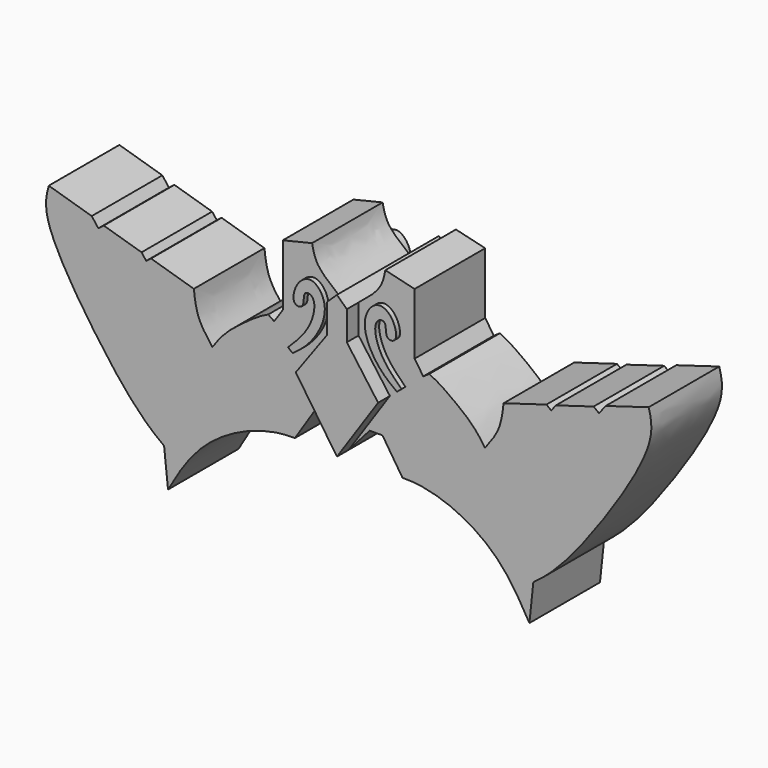
from build123d import *

# Parameters (mm, degrees)
F1_DEPTH = 4.572
F3_DEPTH = 0.762
F5_DEPTH = 0.254
F6_DEPTH = 5.842
F7_DEPTH = 5.588


with BuildPart() as f1:
    # F0 (on Front) → F1 (new body)
    with BuildSketch(Plane.XZ):
        with BuildLine():
            Line((0.511412567, -28.8139525801), (0, -28.323020786))
            Line((0, -28.323020786), (-0.511412567, -28.8139525801))
            add(Edge.make_bspline(
                [(-0.511412567, -28.8139525801), (-0.9403535722, -28.472074233), (-1.705014842, -27.8626171566), (-1.8396956904, -27.1887672659), (-1.8988265656, -26.8929172307)],
                knots=[0, 0, 0, 0, 0.5609555789, 1, 1, 1, 1], degree=3))
            Line((-1.8988265656, -26.8929172307), (-3.4143095836, -27.2557791322))
            Line((-3.4143095836, -27.2557791322), (-3.4143095836, -30.4361600429))
            Line((-3.4143095836, -30.4361600429), (-3.8625509478, -31.097849831))
            Line((-3.8625509478, -31.097849831), (-4.1716856722, -30.8884360346))
            add(Edge.make_bspline(
                [(-4.1716856722, -30.8884360346), (-4.6570503664, -31.0942776244), (-5.892475855, -31.9972889557), (-6.5520000644, -32.5706414878), (-7.0642759092, -33.3177112043)],
                knots=[0, 0, 0, 0, 0.4959920039, 1, 1, 1, 1], degree=3))
            add(Edge.make_bspline(
                [(-7.0642759092, -33.3177112043), (-7.336361897, -32.9605648351), (-7.8752721244, -32.253178789), (-7.975278263, -31.3947858635), (-8.0247931182, -30.9697799385)],
                knots=[0, 0, 0, 0, 0.504881841, 1, 1, 1, 1], degree=3))
            Line((-8.0247931182, -30.9697799385), (-10.2446554229, -30.3080901504))
            Line((-10.2446554229, -30.3080901504), (-10.4927985468, -30.4989707578))
            Line((-10.4927985468, -30.4989707578), (-10.734282434, -30.1850438118))
            Line((-10.734282434, -30.1850438118), (-12.6912189795, -29.6017261324))
            Line((-12.6912189795, -29.6017261324), (-12.97225981, -29.8179128379))
            Line((-12.97225981, -29.8179128379), (-13.3158623139, -29.3712325813))
            Line((-13.3158623139, -29.3712325813), (-15.5417267233, -28.7077537041))
            add(Edge.make_bspline(
                [(-15.5417267233, -28.7077537041), (-15.7046895474, -29.2615797371), (-15.8360494147, -30.5935817761), (-12.8855823307, -35.2033930228), (-10.7517862636, -37.7968416821), (-9.5663731918, -38.6320203543)],
                knots=[0, 0, 0, 0, 0.2250809151, 0.6202128531, 1, 1, 1, 1], degree=3))
            Line((-9.5663731918, -38.6320203543), (-9.3634054065, -40.5627302825))
            add(Edge.make_bspline(
                [(-9.3634054065, -40.5627302825), (-8.7686777302, -39.5064561238), (-7.5085610307, -37.4075436859), (-4.3846545231, -36.0306924657), (-2.7879977133, -36.0754579306)],
                knots=[0, 0, 0, 0, 0.4667287487, 1, 1, 1, 1], degree=3))
            Line((-2.7879977133, -36.0754579306), (-1.7513347557, -34.4760343432))
            Line((-1.7513347557, -34.4760343432), (-1.0849080281, -34.4760343432))
            Line((-1.0849080281, -34.4760343432), (0, -35.7052236795))
            Line((0, -35.7052236795), (1.0849080281, -34.4760343432))
            Line((1.0849080281, -34.4760343432), (1.7513347557, -34.4760343432))
            Line((1.7513347557, -34.4760343432), (2.7879977133, -36.0754579306))
            add(Edge.make_bspline(
                [(9.3634054065, -40.5627302825), (8.7686777302, -39.5064561238), (7.5085610307, -37.4075436859), (4.3846545231, -36.0306924657), (2.7879977133, -36.0754579306)],
                knots=[0, 0, 0, 0, 0.4667287487, 1, 1, 1, 1], degree=3))
            Line((9.3634054065, -40.5627302825), (9.5663731918, -38.6320203543))
            add(Edge.make_bspline(
                [(15.5417267233, -28.7077537041), (15.7046895474, -29.2615797371), (15.8360494147, -30.5935817761), (12.8855823307, -35.2033930228), (10.7517862636, -37.7968416821), (9.5663731918, -38.6320203543)],
                knots=[0, 0, 0, 0, 0.2250809151, 0.6202128531, 1, 1, 1, 1], degree=3))
            Line((15.5417267233, -28.7077537041), (13.3158623139, -29.3712325813))
            Line((13.3158623139, -29.3712325813), (12.97225981, -29.8179128379))
            Line((12.97225981, -29.8179128379), (12.6912189795, -29.6017261324))
            Line((12.6912189795, -29.6017261324), (10.734282434, -30.1850438118))
            Line((10.734282434, -30.1850438118), (10.4927985468, -30.4989707578))
            Line((10.4927985468, -30.4989707578), (10.2446554229, -30.3080901504))
            Line((10.2446554229, -30.3080901504), (8.0247931182, -30.9697799385))
            add(Edge.make_bspline(
                [(7.0642759092, -33.3177112043), (7.336361897, -32.9605648351), (7.8752721244, -32.253178789), (7.975278263, -31.3947858635), (8.0247931182, -30.9697799385)],
                knots=[0, 0, 0, 0, 0.504881841, 1, 1, 1, 1], degree=3))
            add(Edge.make_bspline(
                [(4.1716856722, -30.8884360346), (4.6570503664, -31.0942776244), (5.892475855, -31.9972889557), (6.5520000644, -32.5706414878), (7.0642759092, -33.3177112043)],
                knots=[0, 0, 0, 0, 0.4959920039, 1, 1, 1, 1], degree=3))
            Line((4.1716856722, -30.8884360346), (3.8625509478, -31.097849831))
            Line((3.8625509478, -31.097849831), (3.4143095836, -30.4361600429))
            Line((3.4143095836, -30.4361600429), (3.4143095836, -27.2557791322))
            Line((3.4143095836, -27.2557791322), (1.8988265656, -26.8929172307))
            add(Edge.make_bspline(
                [(0.511412567, -28.8139525801), (0.9403535722, -28.472074233), (1.705014842, -27.8626171566), (1.8396956904, -27.1887672659), (1.8988265656, -26.8929172307)],
                knots=[0, 0, 0, 0, 0.5609555789, 1, 1, 1, 1], degree=3))
        make_face()
    extrude(amount=F1_DEPTH)

    # F2 (on face) → F3 (join)
    with BuildSketch(Plane.XZ.offset(4.572)):
        Polygon((0.511412567, -30.3229298443), (0.511412567, -28.8139525801), (0, -28.323020786), (-0.511412567, -28.8139525801), (-0.511412567, -30.3229298443), (-2.1337091457, -32.5528457761), (0, -35.7052236795), (2.1337091457, -32.5528457761), align=None)
    extrude(amount=F3_DEPTH)

    # F4 (on face) → F5 (join)
    with BuildSketch(Plane.XZ.offset(4.572)):
        with BuildLine():
            Line((-2.9385876121, -31.875458809), (-2.7008680002, -32.0755240035))
            add(Edge.make_bspline(
                [(-2.7008680002, -32.0755240035), (-2.3532947674, -31.8132285761), (-1.6022138894, -31.2464269316), (-0.7219658441, -29.443778079), (-1.6174618255, -28.1915240109), (-2.5437802411, -28.6957425476), (-2.8005654866, -29.8531202742), (-2.0489274638, -29.8746081988), (-2.1973978759, -29.082696343), (-1.7595420189, -29.0395233769), (-1.4719265474, -29.4693917997), (-1.8042707586, -30.7507823457), (-2.542101388, -31.4823422624), (-2.9385876121, -31.875458809)],
                knots=[0, 0, 0, 0, 0.1125414694, 0.24319406, 0.3456393567, 0.432915965, 0.526110965, 0.5850104689, 0.6601223388, 0.7103526715, 0.7716925466, 0.8773149873, 1, 1, 1, 1], degree=3))
        make_face()
        with BuildLine():
            Line((2.7008680002, -32.0755240035), (2.9385876121, -31.875458809))
            add(Edge.make_bspline(
                [(2.7008680002, -32.0755240035), (2.3532947674, -31.8132285761), (1.6022138894, -31.2464269316), (0.7219658441, -29.443778079), (1.6174618255, -28.1915240109), (2.5437802411, -28.6957425476), (2.8005654866, -29.8531202742), (2.0489274638, -29.8746081988), (2.1973978759, -29.082696343), (1.7595420189, -29.0395233769), (1.4719265474, -29.4693917997), (1.8042707586, -30.7507823457), (2.542101388, -31.4823422624), (2.9385876121, -31.875458809)],
                knots=[0, 0, 0, 0, 0.1125414694, 0.24319406, 0.3456393567, 0.432915965, 0.526110965, 0.5850104689, 0.6601223388, 0.7103526715, 0.7716925466, 0.8773149873, 1, 1, 1, 1], degree=3))
        make_face()
    extrude(amount=F5_DEPTH)

    # F2 (on face) → F6 (join)
    with BuildSketch(Plane.XZ.offset(4.572)):
        Polygon((0.511412567, -30.3229298443), (0.511412567, -28.8139525801), (0, -28.323020786), (-0.511412567, -28.8139525801), (-0.511412567, -30.3229298443), (-2.1337091457, -32.5528457761), (0, -35.7052236795), (2.1337091457, -32.5528457761), align=None)
    extrude(amount=-F6_DEPTH)

    # F7 (add): faces of the model
    f7_faces = [f1.faces().sort_by_distance(p)[0] for p in [
        (2.7932403634, -4.826, -31.9440187425),
        (-2.4660383361, -4.826, -28.9512437739),
    ]]
    extrude(f7_faces, amount=-F7_DEPTH)


solid = f1.part
